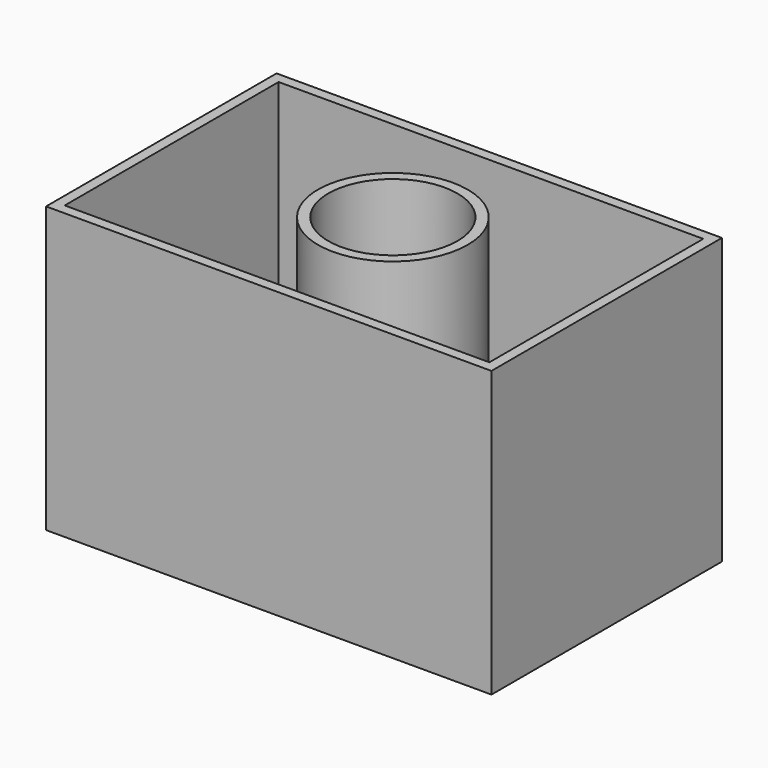
from build123d import *

# Parameters (mm, degrees)
F0_W     = 109.167661
F0_H     = 70.613237
F0_R     = 15.817253
F1_DEPTH = 69.85
F2_T     = -2.54


with BuildPart() as f1:
    # F0 (on Top) → F1 (new body)
    with BuildSketch(Plane.XY):
        with Locations((-16.406844, -8.946324)):
            Rectangle(F0_W, F0_H)
        with Locations((-16.362157, -6.289776)):
            Circle(F0_R, mode=Mode.SUBTRACT)
    extrude(amount=F1_DEPTH)

    # F2
    f2_openings = [f1.faces().sort_by_distance(p)[0] for p in [
        (-16.406843, 25.060147, 69.85),
    ]]
    offset(amount=F2_T, openings=f2_openings)


solid = f1.part
